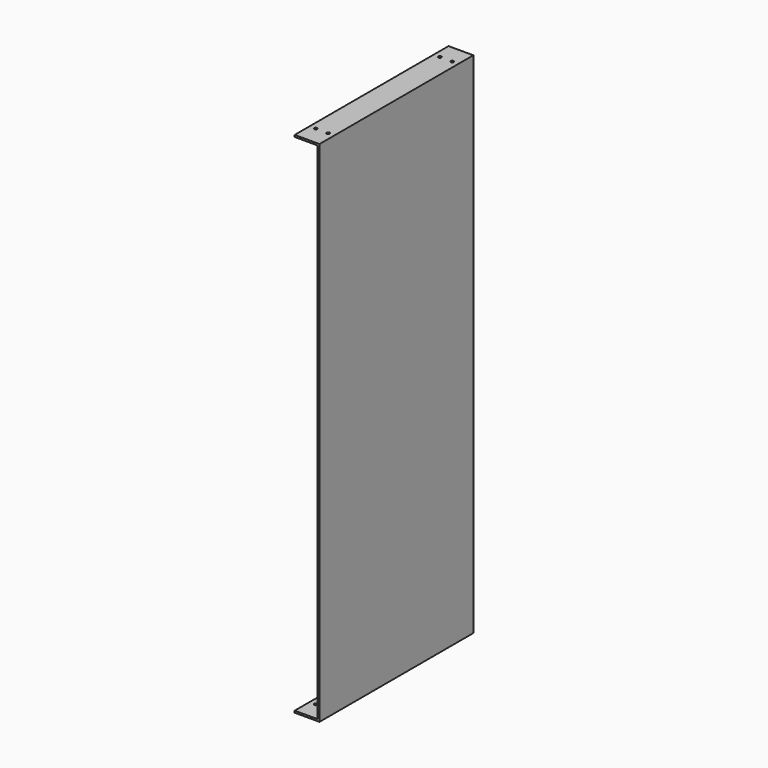
from build123d import *

# Parameters (mm, degrees)
F0_W     = 40
F0_H     = 310
F1_DEPTH = 820
F2_T     = -3
F3_R     = 2.5
F4_DEPTH = 820.001


with BuildPart() as f1:
    # F0 (on Top) → F1 (new body)
    with BuildSketch(Plane.XY):
        with Locations((-20, 59.262322)):
            Rectangle(F0_W, F0_H)
    extrude(amount=F1_DEPTH)

    # F2
    f2_openings = [f1.faces().sort_by_distance(p)[0] for p in [
        (-20, 214.262322, 410),
        (-20, -95.737678, 410),
        (-40, 59.262322, 410),
    ]]
    offset(amount=F2_T, openings=f2_openings)

    # F3 (on face) → F4 (cut, through all)
    with BuildSketch(Plane.XY.offset(820)):
        with Locations((-30, 184.262322)):
            Circle(F3_R)
        with Locations((-10, 184.262322)):
            Circle(F3_R)
        with Locations((-30, -65.737678)):
            Circle(F3_R)
        with Locations((-10, -65.737678)):
            Circle(F3_R)
    extrude(amount=-F4_DEPTH, mode=Mode.SUBTRACT)


solid = f1.part
